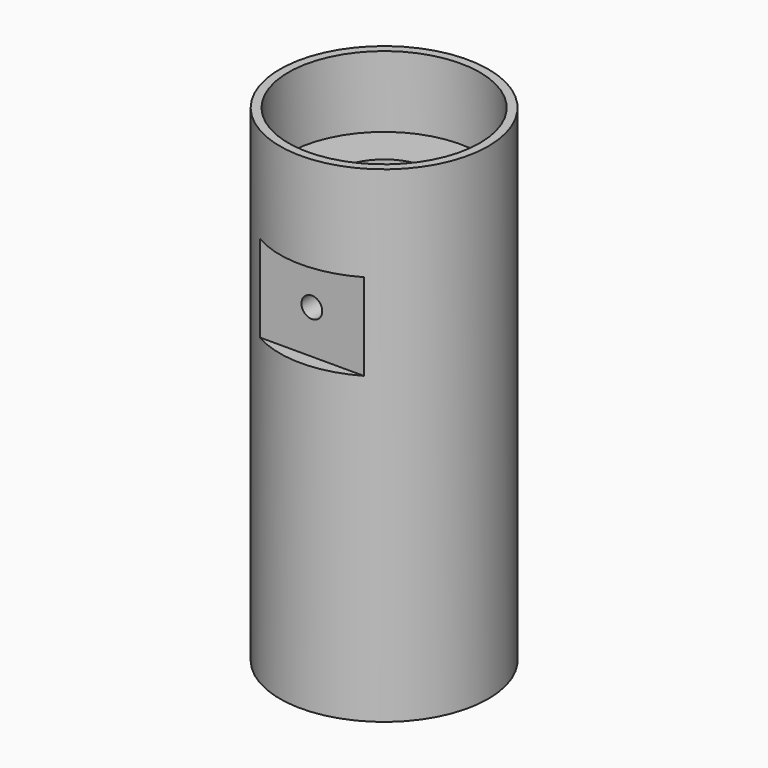
from build123d import *

# Parameters (mm, degrees)
F0_R     = 19.05
F0_R_2   = 17.5
F0_R_3   = 9
F1_DEPTH = 88.9
F2_DEPTH = 13
F3_R     = 17.5
F3_R_2   = 9
F4_DEPTH = 13
F6_W     = 19.05
F6_H     = 15.875
F7_DEPTH = 2.54
F8_D     = 3.7973
F8_DEPTH = 12.7
F8_START = 2.54
F8_TIP   = 1.1408240143


with BuildPart() as f1:
    # F0 (on Top) → F1 (new body)
    with BuildSketch(Plane.XY):
        Circle(F0_R)
        Circle(F0_R_2, mode=Mode.SUBTRACT)
        Circle(F0_R_2)
        Circle(F0_R_3, mode=Mode.SUBTRACT)
    extrude(amount=F1_DEPTH)

    # F0 (on Top) → F2 (cut)
    with BuildSketch(Plane.XY):
        Circle(F0_R_2)
        Circle(F0_R_3, mode=Mode.SUBTRACT)
    extrude(amount=F2_DEPTH, mode=Mode.SUBTRACT)

    # F3 (on face) → F4 (cut)
    with BuildSketch(Plane.XY.offset(88.9)):
        Circle(F3_R)
        Circle(F3_R_2, mode=Mode.SUBTRACT)
    extrude(amount=-F4_DEPTH, mode=Mode.SUBTRACT)

    # F6 (on offset) → F7 (cut)
    with BuildSketch(Plane.XZ.offset(19.05)):
        with Locations((0, 63.5)):
            Rectangle(F6_W, F6_H)
    extrude(amount=-F7_DEPTH, mode=Mode.SUBTRACT)

    # F8
    # its depths count from where the whole tool has entered the part; down to there all is cleared
    with Locations(Plane.XZ.offset(19.05).offset(-F8_START)):
        with Locations((0, 63.5)):
            Hole(F8_D / 2, depth=F8_DEPTH)
            with Locations((0, 0, -(F8_DEPTH + F8_TIP / 2))):  # 118° drill point
                Cone(0, F8_D / 2, F8_TIP, mode=Mode.SUBTRACT)


solid = f1.part
